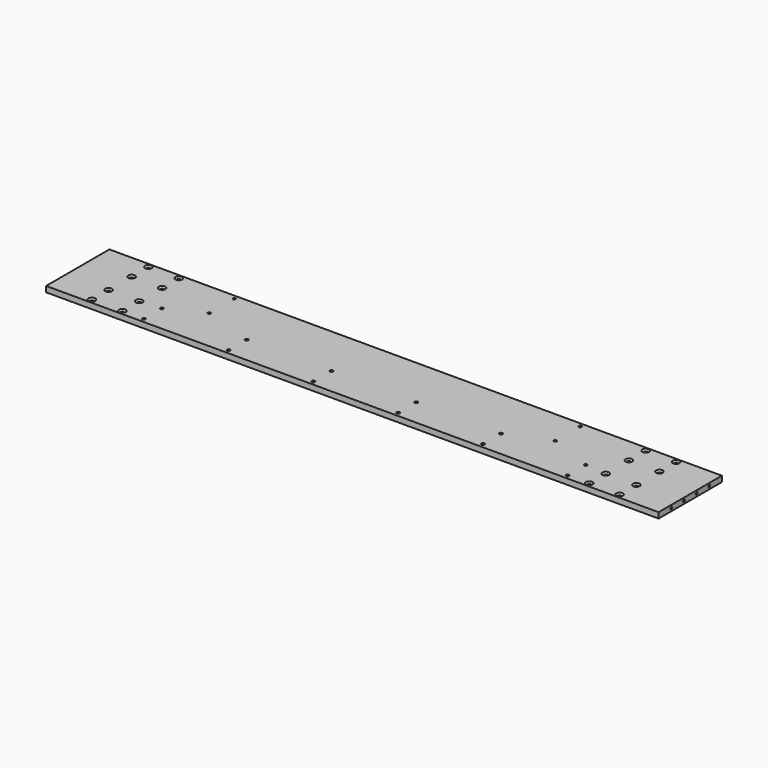
from build123d import *

# Parameters (mm, degrees)
SKETCH_W               = 1084
SKETCH_H               = 140
PAD_DEPTH              = 10
HOLE_D                 = 6.6
HOLE_CSINK_D           = 12
HOLE_CSINK_ANGLE       = 90
LINEARPATTERN_COUNT    = 2
LINEARPATTERN_PITCH    = 37
LINEARPATTERN001_COUNT = 2
LINEARPATTERN001_PITCH = 88
LINEARPATTERN002_COUNT = 2
LINEARPATTERN002_PITCH = 125
HOLE001_D              = 6.6
HOLE001_CSINK_D        = 12
HOLE001_CSINK_ANGLE    = 90
LINEARPATTERN003_COUNT = 2
LINEARPATTERN003_PITCH = 37
LINEARPATTERN004_COUNT = 2
LINEARPATTERN004_PITCH = 88
LINEARPATTERN005_COUNT = 2
LINEARPATTERN005_PITCH = 125
SKETCH003_R            = 2.75
HOLE002_DEPTH          = 10.001
LINEARPATTERN006_COUNT = 6
LINEARPATTERN006_PITCH = 150
SKETCH004_R            = 2.75
HOLE003_DEPTH          = 10.001
LINEARPATTERN007_COUNT = 6
LINEARPATTERN007_PITCH = 150
SKETCH005_R            = 2.5
HOLE004_DEPTH          = 10.001
LINEARPATTERN008_COUNT = 2
LINEARPATTERN008_PITCH = 612
SKETCH006_R            = 2.5
HOLE005_DEPTH          = 10.001
LINEARPATTERN009_COUNT = 2
LINEARPATTERN009_PITCH = 612
HOLE006_D              = 6.6
HOLE006_CSINK_D        = 12
HOLE006_CSINK_ANGLE    = 90
LINEARPATTERN010_COUNT = 2
LINEARPATTERN010_PITCH = 54
HOLE007_D              = 6.6
HOLE007_CSINK_D        = 12
HOLE007_CSINK_ANGLE    = 90
LINEARPATTERN011_COUNT = 2
LINEARPATTERN011_PITCH = 54
HOLE008_D              = 6.6
HOLE008_CSINK_D        = 12
HOLE008_CSINK_ANGLE    = 90
LINEARPATTERN012_COUNT = 2
LINEARPATTERN012_PITCH = 54
HOLE009_D              = 6.6
HOLE009_CSINK_D        = 12
HOLE009_CSINK_ANGLE    = 90
LINEARPATTERN013_COUNT = 2
LINEARPATTERN013_PITCH = 54
SKETCH011_R            = 2.1
HOLE010_DEPTH          = 25
LINEARPATTERN014_COUNT = 4
LINEARPATTERN014_PITCH = 28
SKETCH012_R            = 2.1
HOLE011_DEPTH          = 25
LINEARPATTERN015_COUNT = 4
LINEARPATTERN015_PITCH = 28


with BuildPart() as part:
    # Sketch → Pad (new body)
    with BuildSketch(Plane.XY):
        with Locations((542, 70)):
            Rectangle(SKETCH_W, SKETCH_H)
    extrude(amount=PAD_DEPTH)

    # Hole (through all)
    with Locations(Plane.XY.offset(10)):
        with Locations((75, 7.5)):
            hole = CounterSinkHole(HOLE_D / 2, HOLE_CSINK_D / 2, counter_sink_angle=HOLE_CSINK_ANGLE)

    # LinearPattern: Hole ×2
    with Locations(*[(0, i * LINEARPATTERN_PITCH, 0) for i in range(1, LINEARPATTERN_COUNT)]):
        add(hole, mode=Mode.SUBTRACT)

    # LinearPattern001: Hole ×2
    with Locations(*[(0, i * LINEARPATTERN001_PITCH, 0) for i in range(1, LINEARPATTERN001_COUNT)]):
        add(hole, mode=Mode.SUBTRACT)

    # LinearPattern002: Hole ×2
    with Locations(*[(0, i * LINEARPATTERN002_PITCH, 0) for i in range(1, LINEARPATTERN002_COUNT)]):
        add(hole, mode=Mode.SUBTRACT)

    # Hole001 (through all)
    with Locations(Plane.XY.offset(10)):
        with Locations((129, 7.5)):
            hole001 = CounterSinkHole(HOLE001_D / 2, HOLE001_CSINK_D / 2, counter_sink_angle=HOLE001_CSINK_ANGLE)

    # LinearPattern003: Hole001 ×2
    with Locations(*[(0, i * LINEARPATTERN003_PITCH, 0) for i in range(1, LINEARPATTERN003_COUNT)]):
        add(hole001, mode=Mode.SUBTRACT)

    # LinearPattern004: Hole001 ×2
    with Locations(*[(0, i * LINEARPATTERN004_PITCH, 0) for i in range(1, LINEARPATTERN004_COUNT)]):
        add(hole001, mode=Mode.SUBTRACT)

    # LinearPattern005: Hole001 ×2
    with Locations(*[(0, i * LINEARPATTERN005_PITCH, 0) for i in range(1, LINEARPATTERN005_COUNT)]):
        add(hole001, mode=Mode.SUBTRACT)

    # Sketch003 (on Face5 of LinearPattern005) → Hole002 (cut, through all)
    with BuildSketch(Plane.XY.offset(10)):
        with Locations((167, 7.5)):
            Circle(SKETCH003_R)
    hole002 = extrude(amount=-HOLE002_DEPTH, mode=Mode.SUBTRACT)

    # LinearPattern006: Hole002 ×6
    with Locations(*[(i * LINEARPATTERN006_PITCH, 0, 0) for i in range(1, LINEARPATTERN006_COUNT)]):
        add(hole002, mode=Mode.SUBTRACT)

    # Sketch004 (on Face5 of LinearPattern006) → Hole003 (cut, through all)
    with BuildSketch(Plane.XY.offset(10)):
        with Locations((167, 47.5)):
            Circle(SKETCH004_R)
    hole003 = extrude(amount=-HOLE003_DEPTH, mode=Mode.SUBTRACT)

    # LinearPattern007: Hole003 ×6
    with Locations(*[(i * LINEARPATTERN007_PITCH, 0, 0) for i in range(1, LINEARPATTERN007_COUNT)]):
        add(hole003, mode=Mode.SUBTRACT)

    # Sketch005 (on Face5 of LinearPattern007) → Hole004 (cut, through all)
    with BuildSketch(Plane.XY.offset(10)):
        with Locations((227, 132.5)):
            Circle(SKETCH005_R)
    hole004 = extrude(amount=-HOLE004_DEPTH, mode=Mode.SUBTRACT)

    # LinearPattern008: Hole004 ×2
    with Locations(*[(i * LINEARPATTERN008_PITCH, 0, 0) for i in range(1, LINEARPATTERN008_COUNT)]):
        add(hole004, mode=Mode.SUBTRACT)

    # Sketch006 (on Face5 of LinearPattern008) → Hole005 (cut, through all)
    with BuildSketch(Plane.XY.offset(10)):
        with Locations((227, 77.5)):
            Circle(SKETCH006_R)
    hole005 = extrude(amount=-HOLE005_DEPTH, mode=Mode.SUBTRACT)

    # LinearPattern009: Hole005 ×2
    with Locations(*[(i * LINEARPATTERN009_PITCH, 0, 0) for i in range(1, LINEARPATTERN009_COUNT)]):
        add(hole005, mode=Mode.SUBTRACT)

    # Hole006 (through all)
    with Locations(Plane.XY.offset(10)):
        with Locations((1009, 132.5)):
            hole006 = CounterSinkHole(HOLE006_D / 2, HOLE006_CSINK_D / 2, counter_sink_angle=HOLE006_CSINK_ANGLE)

    # LinearPattern010: Hole006 ×2
    with Locations(*[(-i * LINEARPATTERN010_PITCH, 0, 0) for i in range(1, LINEARPATTERN010_COUNT)]):
        add(hole006, mode=Mode.SUBTRACT)

    # Hole007 (through all)
    with Locations(Plane.XY.offset(10)):
        with Locations((1009, 95.5)):
            hole007 = CounterSinkHole(HOLE007_D / 2, HOLE007_CSINK_D / 2, counter_sink_angle=HOLE007_CSINK_ANGLE)

    # LinearPattern011: Hole007 ×2
    with Locations(*[(-i * LINEARPATTERN011_PITCH, 0, 0) for i in range(1, LINEARPATTERN011_COUNT)]):
        add(hole007, mode=Mode.SUBTRACT)

    # Hole008 (through all)
    with Locations(Plane.XY.offset(10)):
        with Locations((1009, 7.5)):
            hole008 = CounterSinkHole(HOLE008_D / 2, HOLE008_CSINK_D / 2, counter_sink_angle=HOLE008_CSINK_ANGLE)

    # LinearPattern012: Hole008 ×2
    with Locations(*[(-i * LINEARPATTERN012_PITCH, 0, 0) for i in range(1, LINEARPATTERN012_COUNT)]):
        add(hole008, mode=Mode.SUBTRACT)

    # Hole009 (through all)
    with Locations(Plane.XY.offset(10)):
        with Locations((1009, 44.5)):
            hole009 = CounterSinkHole(HOLE009_D / 2, HOLE009_CSINK_D / 2, counter_sink_angle=HOLE009_CSINK_ANGLE)

    # LinearPattern013: Hole009 ×2
    with Locations(*[(-i * LINEARPATTERN013_PITCH, 0, 0) for i in range(1, LINEARPATTERN013_COUNT)]):
        add(hole009, mode=Mode.SUBTRACT)

    # Sketch011 (on Face2 of LinearPattern013) → Hole010 (cut)
    with BuildSketch(Plane(origin=(0, 0, 0), x_dir=(0, -1, 0), z_dir=(-1, 0, 0))):
        with Locations((-28, 5)):
            Circle(SKETCH011_R)
    hole010 = extrude(amount=-HOLE010_DEPTH, mode=Mode.SUBTRACT)

    # LinearPattern014: Hole010 ×4
    with Locations(*[(0, i * LINEARPATTERN014_PITCH, 0) for i in range(1, LINEARPATTERN014_COUNT)]):
        add(hole010, mode=Mode.SUBTRACT)

    # Sketch012 (on Face3 of LinearPattern014) → Hole011 (cut)
    with BuildSketch(Plane.YZ.offset(1084)):
        with Locations((28, 5)):
            Circle(SKETCH012_R)
    hole011 = extrude(amount=-HOLE011_DEPTH, mode=Mode.SUBTRACT)

    # LinearPattern015: Hole011 ×4
    with Locations(*[(0, i * LINEARPATTERN015_PITCH, 0) for i in range(1, LINEARPATTERN015_COUNT)]):
        add(hole011, mode=Mode.SUBTRACT)


solid = part.part
